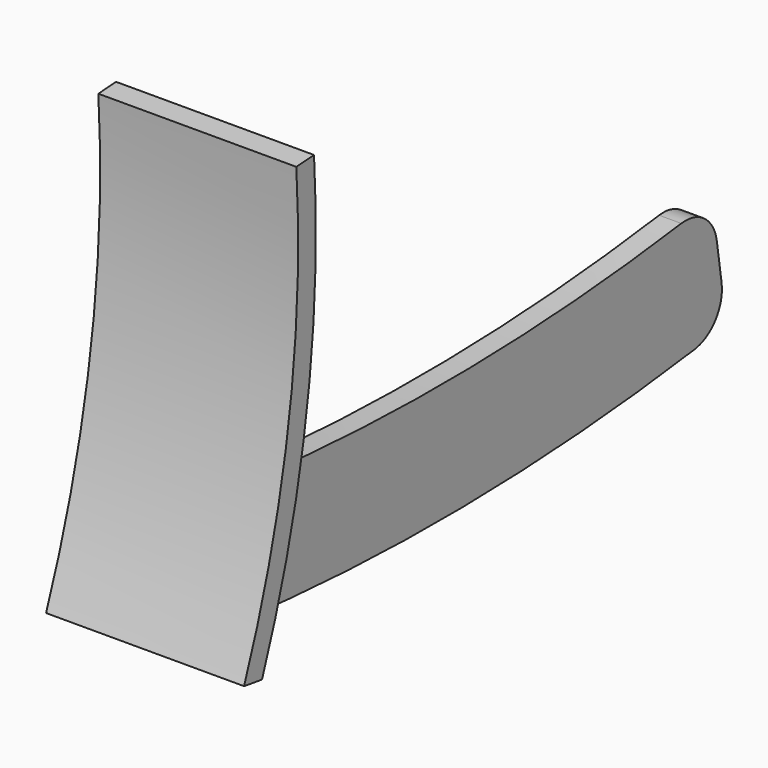
from build123d import *

# Parameters (mm, degrees)
F1_DEPTH = 1.4
F3_DEPTH = 12.5
F5_DEPTH = 1.4
F6_R     = 5


with BuildPart() as f1:
    # F0 (on Right) → F1 (new body, symmetric)
    with BuildSketch(Plane.YZ):
        with BuildLine():
            ThreePointArc((-36.75, 57.7719308173), (-37.90894201, 30.133065909), (-45, 3.3942010007))
            ThreePointArc((-45, 3.3942010007), (0, 0), (45, 3.3942010007))
            Line((45, 3.3942010007), (44.58, 6.1625217914))
            ThreePointArc((44.58, 6.1625217914), (1.7210785748, 2.8049834056), (-41.1738544742, 5.6659148047))
            ThreePointArc((-41.1738544742, 5.6659148047), (-34.8900041591, 31.4430914851), (-33.9562362485, 57.9587036764))
            Line((-33.9562362485, 57.9587036764), (-36.75, 57.7719308173))
        make_face()
    extrude(amount=F1_DEPTH, both=True)

    # F2 (on Right) → F3 (join, symmetric)
    with BuildSketch(Plane.YZ):
        with BuildLine():
            Line((-33.9562362485, 57.9587036764), (-36.75, 57.7719308173))
            ThreePointArc((-36.75, 57.7719308173), (-37.90894201, 30.133065909), (-45, 3.3942010007))
            ThreePointArc((-45, 3.3942010007), (-43.5812450935, 3.1824212145), (-42.1614937667, 2.9774277208))
            ThreePointArc((-42.1614937667, 2.9774277208), (-35.0936014904, 30.0255377589), (-33.9562362485, 57.9587036764))
        make_face()
    extrude(amount=F3_DEPTH, both=True)

    # F4 (on Right) → F5 (join, symmetric)
    with BuildSketch(Plane.YZ):
        with BuildLine():
            ThreePointArc((-41.1738544742, 5.6659148047), (1.7210785748, 2.8049834056), (44.58, 6.1625217914))
            Line((44.58, 6.1625217914), (42.75, 18.2244909507))
            ThreePointArc((42.75, 18.2244909507), (2.6020074608, 15.0118782174), (-37.5979509775, 17.4908955763))
            ThreePointArc((-37.5979509775, 17.4908955763), (-39.2457269236, 11.5360156804), (-41.1738544742, 5.6659148047))
        make_face()
    extrude(amount=F5_DEPTH, both=True)

    # F6
    f6_edges = [f1.edges().sort_by_distance(p)[0] for p in [
        (0, 42.75, 18.224491),
        (0, 45, 3.394201),
    ]]
    fillet(f6_edges, radius=F6_R)


solid = f1.part
